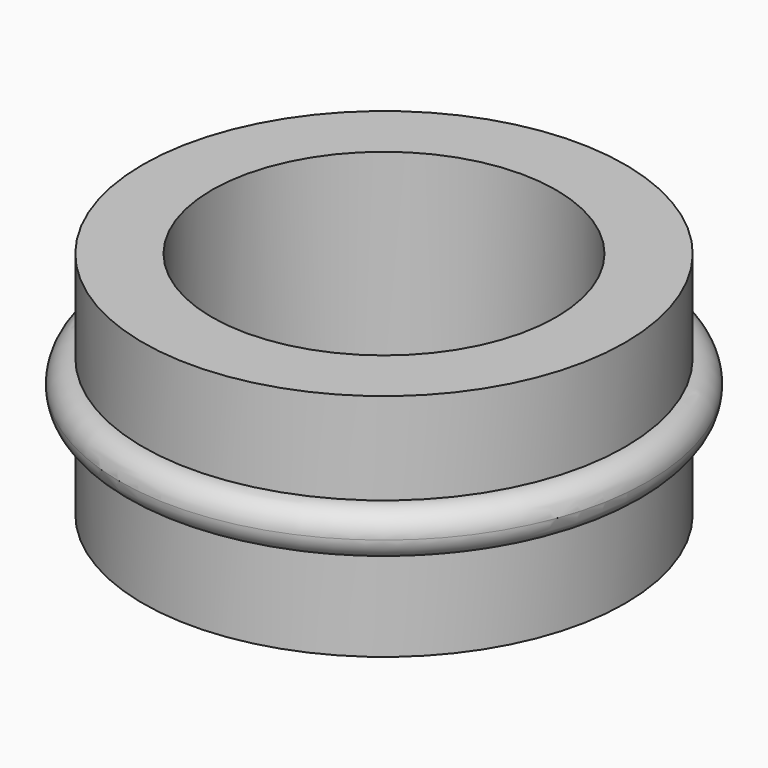
from build123d import *


with BuildPart() as f1:
    # F0 (on Front) → F1 (revolve)
    with BuildSketch(Plane.XZ):
        with BuildLine():
            Line((37.5, 50), (37.5, 0))
            Line((37.5, 0), (52.5, 0))
            Line((52.5, 0), (52.5, 20))
            ThreePointArc((52.5, 20), (47.5, 25), (52.5, 30))
            Line((52.5, 30), (52.5, 50))
            Line((52.5, 50), (37.5, 50))
        make_face()
        with BuildLine():
            Line((52.5, 30), (52.5, 20))
            ThreePointArc((52.5, 20), (56.0355339059, 21.4644660941), (57.5, 25))
            ThreePointArc((57.5, 25), (56.0355339059, 28.5355339059), (52.5, 30))
        make_face()
        with BuildLine():
            ThreePointArc((52.5, 30), (47.5, 25), (52.5, 20))
            Line((52.5, 20), (52.5, 30))
        make_face()
    revolve(axis=Axis((0, 0, 25), (0, 0, 1)))


solid = f1.part
